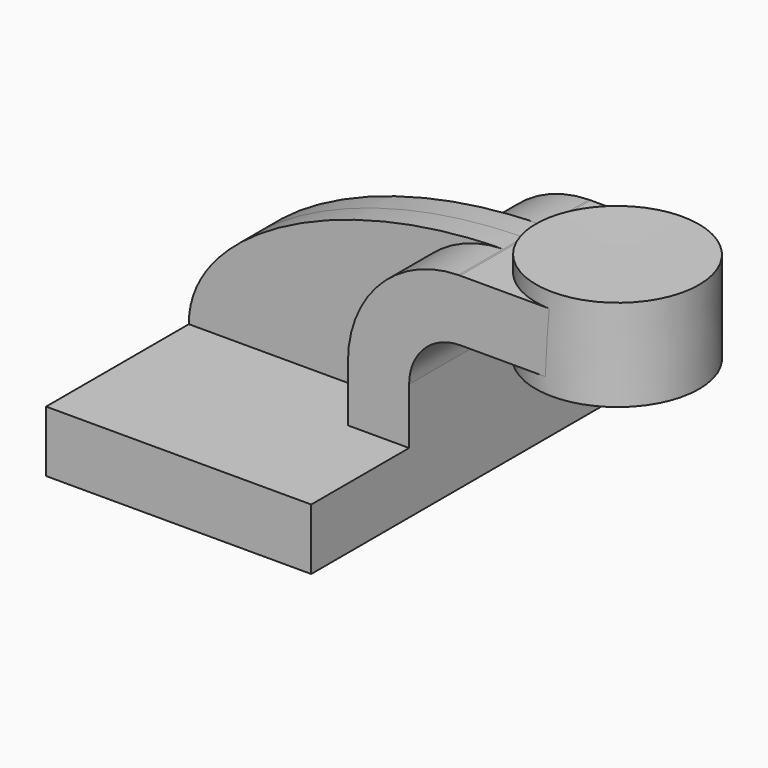
from build123d import *

# Parameters (mm, degrees)
F1_DEPTH = 63.5
F0_W     = 25.298796773
F0_H     = 19.05
F2_DEPTH = 25.4
F3_DEPTH = 7.9375


with BuildPart() as f1:
    # F0 (on Front) → F1 (new body, symmetric)
    with BuildSketch(Plane.XZ):
        Polygon((-41.275, -9.525), (41.275, -9.525), (41.275, 9.525), (22.225, 9.525), (-41.275, 9.525), align=None)
    extrude(amount=F1_DEPTH, both=True)

    # F0 (on Front) → F2 (join, symmetric)
    with BuildSketch(Plane.XZ):
        with BuildLine():
            Line((22.225, 9.525), (41.275, 9.525))
            Line((41.275, 9.525), (41.275, 27.0002))
            ThreePointArc((41.275, 27.0002), (45.9246798487, 38.2255201513), (57.15, 42.8752))
            Line((57.15, 42.8752), (60.426203227, 42.8752))
            Line((60.426203227, 42.8752), (60.426203227, 61.9252))
            Line((60.426203227, 61.9252), (57.15, 61.9252))
            add(Edge.make_bspline(
                [(56.6191061184, 61.9211647159), (56.7959952463, 61.9227867022), (56.9729603774, 61.9241320768), (57.15, 61.9252)],
                knots=[111.1292180124, 111.1292180124, 111.1292180124, 111.1292180124, 111.5045361635, 111.5045361635, 111.5045361635, 111.5045361635], degree=3))
            ThreePointArc((56.6191061184, 61.9211647159), (32.2673042677, 51.5074862246), (22.225, 27.0002))
            Line((22.225, 27.0002), (22.225, 9.525))
        make_face()
        with Locations((73.0756016135, 52.4002)):
            Rectangle(F0_W, F0_H)
    extrude(amount=F2_DEPTH, both=True)

    # F0 (on Front) → F3 (join, symmetric)
    with BuildSketch(Plane.XZ):
        with BuildLine():
            add(Edge.make_bspline(
                [(-41.275, 9.525), (-41.4689858788, 36.7097428775), (4.2434072851, 61.440905318), (56.6191061184, 61.9211647159)],
                knots=[0, 0, 0, 0, 111.1292180124, 111.1292180124, 111.1292180124, 111.1292180124], degree=3))
            Line((-41.275, 9.525), (22.225, 9.525))
            Line((22.225, 9.525), (22.225, 27.0002))
            ThreePointArc((22.225, 27.0002), (32.2673042677, 51.5074862246), (56.6191061184, 61.9211647159))
        make_face()
    extrude(amount=F3_DEPTH, both=True)

    # F0 (on Front) → F4 (revolve)
    with BuildSketch(Plane.XZ):
        Polygon((85.826203227, 66.675), (85.725, 38.1), (111.226203227, 38.1), (111.226203227, 66.675), align=None)
    revolve(axis=Axis((85.7756016135, 0, 52.3875), (-0.003541648, 0, -0.9999937283)))


solid = f1.part
